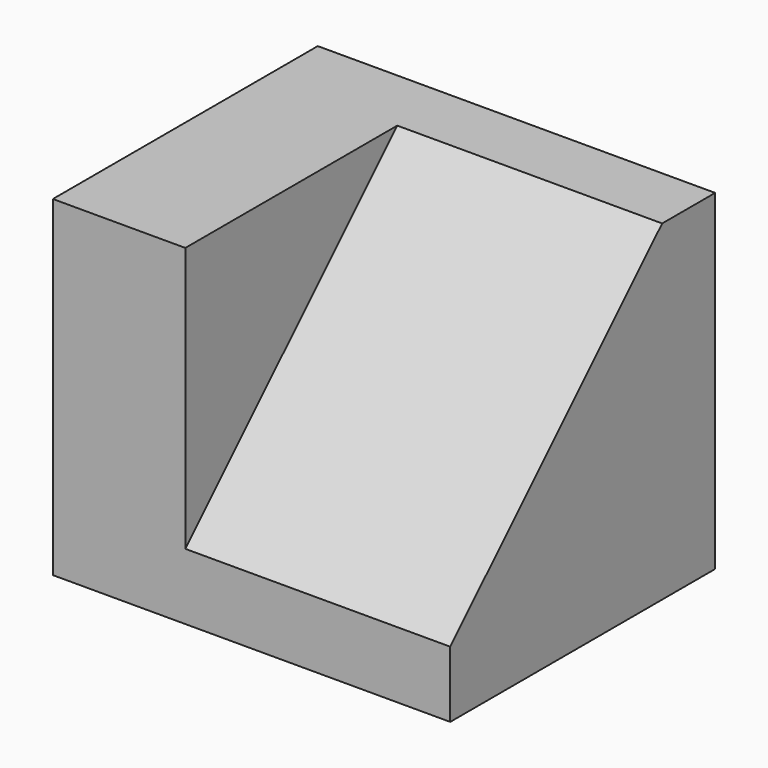
from build123d import *

# Parameters (mm, degrees)
F1_DEPTH = 25.4
F3_DEPTH = 31.75
F5_DEPTH = 25.908


with BuildPart() as f1:
    # F0 (on Front) → F1 (new body)
    with BuildSketch(Plane.XZ):
        Polygon((0, 31.75), (0, 0), (38.1, 0), (38.1, 6.35), (12.7, 6.35), (12.7, 31.75), align=None)
    extrude(amount=F1_DEPTH)

    # F2 (on Top) → F3 (join)
    with BuildSketch(Plane.XY):
        Polygon((0, 6.35), (0, 0), (0, -25.4), (12.7, -25.4), (12.7, 0), (38.1, 0), (38.1, 6.35), align=None)
    extrude(amount=F3_DEPTH)

    # F4 (on face) → F5 (join)
    with BuildSketch(Plane.YZ.offset(38.1)):
        Polygon((0, 31.75), (-25.4, 6.35), (0, 6.35), align=None)
    extrude(amount=-F5_DEPTH)


solid = f1.part
